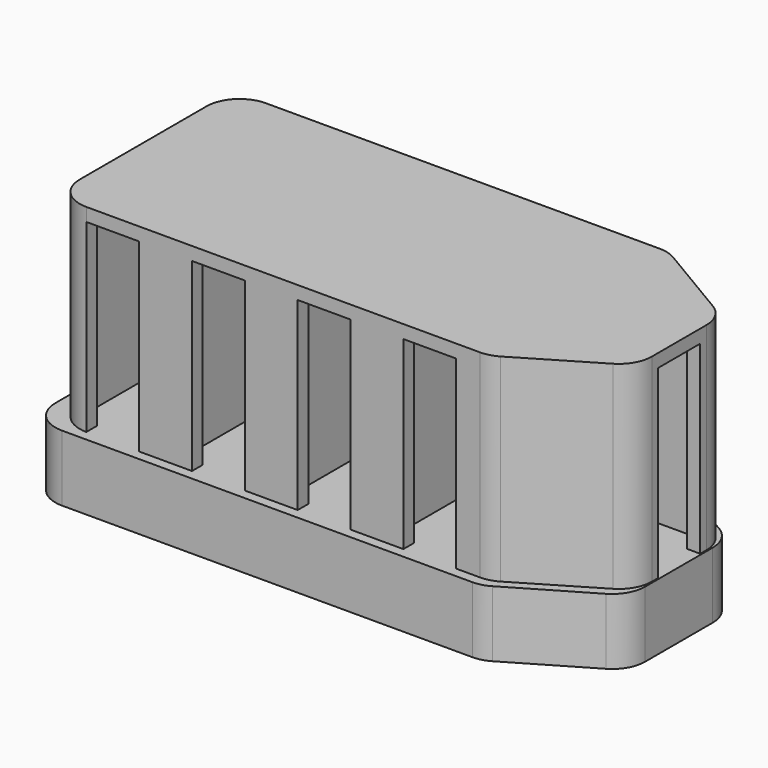
from build123d import *

# Parameters (mm, degrees)
PAD_DEPTH       = 40
POCKET_DEPTH    = 38
FILLET_R        = 5
PAD001_DEPTH    = 10
POCKET001_DEPTH = 8
FILLET001_R     = 5
FILLET002_R     = 5


with BuildPart() as fillet_body:
    # Sketch → Pad (new body)
    with BuildSketch(Plane.XY):
        Polygon((-68.834577, 16.221011), (-68.834577, -17.778989), (-2.834577, -17.778989), (12.308523, -8.778989), (12.308523, 7.221011), (-2.834577, 16.221011), align=None)
    extrude(amount=PAD_DEPTH)

    # Sketch001 → Pocket (cut)
    with BuildSketch(Plane(origin=(0, 0, 0), x_dir=(1, 0, 0), z_dir=(0, 0, -1))):
        Polygon((-52.834577, 15.778989), (-52.834577, 1.778989), (-66.834577, 1.778989), (-66.834577, 15.778989), (-63.834577, 15.778989), (-63.834577, 17.778989), (-55.834577, 17.778989), (-55.834577, 15.778989), align=None)
        Polygon((-66.834577, -0.221011), (-52.834577, -0.221011), (-52.834577, -14.221011), (-55.834577, -14.221011), (-55.834577, -16.221011), (-63.834577, -16.221011), (-63.834577, -14.221011), (-66.834577, -14.221011), align=None)
        Polygon((-36.834577, 1.778989), (-50.834577, 1.778989), (-50.834577, 15.778989), (-47.834577, 15.778989), (-47.834577, 17.778989), (-39.834577, 17.778989), (-39.834577, 15.778989), (-36.834577, 15.778989), align=None)
        Polygon((-36.834577, -0.221011), (-36.834577, -14.221011), (-39.834577, -14.221011), (-39.834577, -16.221011), (-47.834577, -16.221011), (-47.834577, -14.221011), (-50.834577, -14.221011), (-50.834577, -0.221011), align=None)
        Polygon((-20.834577, 15.778989), (-20.834577, 1.778989), (-34.834577, 1.778989), (-34.834577, 15.778989), (-31.834577, 15.778989), (-31.834577, 17.778989), (-23.834577, 17.778989), (-23.834577, 15.778989), align=None)
        Polygon((-20.834577, -0.221011), (-20.834577, -14.221011), (-23.834577, -14.221011), (-23.834577, -16.221011), (-31.834577, -16.221011), (-31.834577, -14.221011), (-34.834577, -14.221011), (-34.834577, -0.221011), align=None)
        Polygon((-4.834577, 1.778989), (-18.834577, 1.778989), (-18.834577, 15.778989), (-15.834577, 15.778989), (-15.834577, 17.778989), (-7.834577, 17.778989), (-7.834577, 15.778989), (-4.834577, 15.778989), align=None)
        Polygon((-4.834577, -0.221011), (-4.834577, -14.221011), (-7.834577, -14.221011), (-7.834577, -16.221011), (-15.834577, -16.221011), (-15.834577, -14.221011), (-18.834577, -14.221011), (-18.834577, -0.221011), align=None)
        Polygon((10.308523, -6.221011), (-3.691477, -6.221011), (-3.691477, 7.778989), (10.308523, 7.778989), (10.308523, 4.778989), (12.308523, 4.778989), (12.308523, -3.221011), (10.308523, -3.221011), align=None)
    extrude(amount=-POCKET_DEPTH, mode=Mode.SUBTRACT)

    # Fillet
    fillet_edges = [fillet_body.edges().sort_by_distance(p)[0] for p in [
        (12.308523, 7.221011, 20),
        (-2.834577, 16.221011, 20),
        (-68.834577, 16.221011, 20),
        (12.308523, -8.778989, 20),
        (-2.834577, -17.778989, 20),
        (-68.834577, -17.778989, 20),
    ]]
    fillet(fillet_edges, radius=FILLET_R)


with BuildPart() as fillet002:
    # Sketch002 → Pad001 (new body)
    with BuildSketch(Plane.XY):
        Polygon((-71.322112, 17.205377), (-71.322112, -19.294623), (-2.822112, -19.294623), (12.496079, -10.294623), (12.496079, 8.205377), (-2.822112, 17.205377), align=None)
    extrude(amount=PAD001_DEPTH)

    # Sketch003 → Pocket001 (cut)
    with BuildSketch(Plane(origin=(0, 0, 0), x_dir=(1, 0, 0), z_dir=(0, 0, -1))):
        Polygon((-70.322112, 18.294623), (-70.322112, -16.205377), (-3.822112, -16.205377), (11.496079, -7.205377), (11.496079, 9.294623), (-3.822112, 18.294623), align=None)
    extrude(amount=-POCKET001_DEPTH, mode=Mode.SUBTRACT)

    # Fillet001
    fillet001_edges = [fillet002.edges().sort_by_distance(p)[0] for p in [
        (11.496079, -9.294623, 4),
        (11.496079, 7.205377, 4),
        (-3.822112, 16.205377, 4),
        (-3.822112, -18.294623, 4),
        (-70.322112, -18.294623, 4),
        (-70.322112, 16.205377, 4),
    ]]
    fillet(fillet001_edges, radius=FILLET001_R)

    # Fillet002
    fillet002_edges = [fillet002.edges().sort_by_distance(p)[0] for p in [
        (-71.322112, 17.205377, 5),
        (-71.322112, -19.294623, 5),
        (-2.822112, 17.205377, 5),
        (12.496079, 8.205377, 5),
        (12.496079, -10.294623, 5),
        (-2.822112, -19.294623, 5),
    ]]
    fillet(fillet002_edges, radius=FILLET002_R)


solid = Compound([fillet_body.part, fillet002.part])
